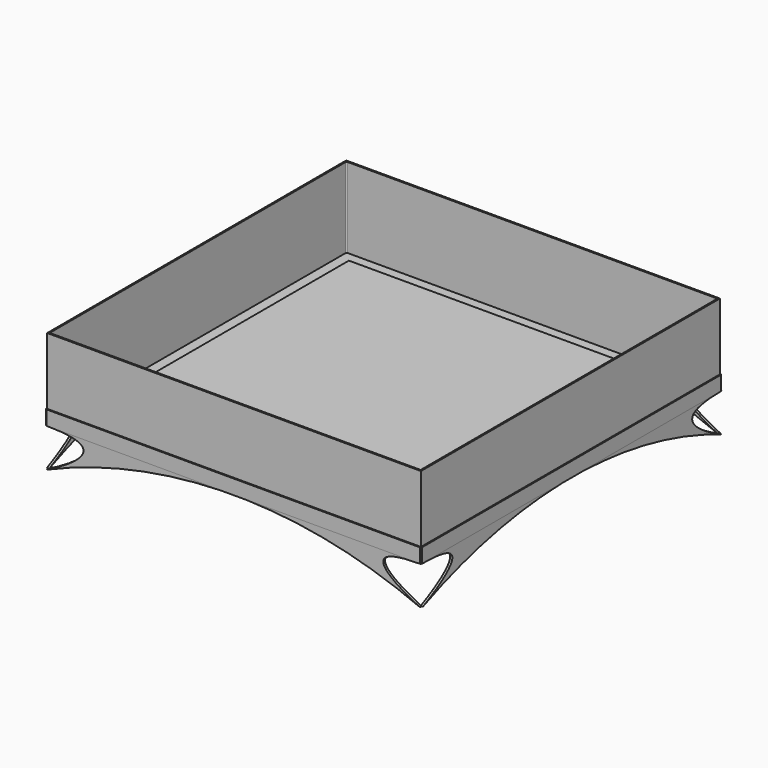
from build123d import *

# Parameters (mm, degrees)
F1_DEPTH      = 76.2
F1_DEPTH_BACK = 6.35
F0_W          = 1981.2
F0_H          = 1981.2
F2_DEPTH      = 6.35
F3_DEPTH      = 9.525
F4_DEPTH      = 457.2
F6_DEPTH      = 12.7
F8_ANGLE      = 90


with BuildPart() as f1:
    # F0 (on Top) → F1 (new body, two sides)
    with BuildSketch(Plane.XY) as f1_sk:
        Polygon((-1066.8, 1073.15), (-1073.15, 1066.8), (-1073.15, -1066.8), (-1066.8, -1073.15), (1066.8, -1073.15), (1073.15, -1066.8), (1073.15, 1066.8), (1066.8, 1073.15), align=None)
        with BuildLine():
            Line((-1060.45, 1066.8), (1066.8, 1066.8))
            Line((1066.8, 1066.8), (1066.8, -1066.8))
            Line((1066.8, -1066.8), (-1066.8, -1066.8))
            Line((-1066.8, -1066.8), (-1066.8, 1060.45))
            ThreePointArc((-1066.8, 1060.45), (-1064.9401280605, 1064.9401280605), (-1060.45, 1066.8))
        make_face(mode=Mode.SUBTRACT)
    extrude(amount=F1_DEPTH)
    extrude(f1_sk.sketch, amount=-F1_DEPTH_BACK)

    # F0 (on Top) → F2 (join)
    with BuildSketch(Plane.XY):
        with BuildLine():
            Line((1066.8, -1066.8), (1066.8, 1066.8))
            Line((1066.8, 1066.8), (-1060.45, 1066.8))
            ThreePointArc((-1060.45, 1066.8), (-1064.9401280605, 1064.9401280605), (-1066.8, 1060.45))
            Line((-1066.8, 1060.45), (-1066.8, -1066.8))
            Line((-1066.8, -1066.8), (1066.8, -1066.8))
        make_face()
        with BuildLine():
            Line((-1052.5125, 1058.8625), (1052.5125, 1058.8625))
            ThreePointArc((1052.5125, 1058.8625), (1057.0026280605, 1057.0026280605), (1058.8625, 1052.5125))
            Line((1058.8625, 1052.5125), (1058.8625, -1058.8625))
            Line((1058.8625, -1058.8625), (-1058.8625, -1058.8625))
            Line((-1058.8625, -1058.8625), (-1058.8625, 1052.5125))
            ThreePointArc((-1058.8625, 1052.5125), (-1057.0026280605, 1057.0026280605), (-1052.5125, 1058.8625))
        make_face(mode=Mode.SUBTRACT)
        with BuildLine():
            ThreePointArc((1058.8625, 1052.5125), (1057.0026280605, 1057.0026280605), (1052.5125, 1058.8625))
            Line((1052.5125, 1058.8625), (-1052.5125, 1058.8625))
            ThreePointArc((-1052.5125, 1058.8625), (-1057.0026280605, 1057.0026280605), (-1058.8625, 1052.5125))
            Line((-1058.8625, 1052.5125), (-1058.8625, -1058.8625))
            Line((-1058.8625, -1058.8625), (1058.8625, -1058.8625))
            Line((1058.8625, -1058.8625), (1058.8625, 1052.5125))
        make_face()
        Rectangle(F0_W, F0_H, mode=Mode.SUBTRACT)
    extrude(amount=-F2_DEPTH)


with BuildPart() as f3:
    # F0 (on Top) → F3 (new body)
    with BuildSketch(Plane.XY):
        Rectangle(F0_W, F0_H)
    extrude(amount=F3_DEPTH)


with BuildPart() as f3b:
    # F0 (on Top) → F3, piece 2 (new body)
    with BuildSketch(Plane.XY):
        with BuildLine():
            Line((1066.8, -1066.8), (1066.8, 1066.8))
            Line((1066.8, 1066.8), (-1060.45, 1066.8))
            ThreePointArc((-1060.45, 1066.8), (-1064.9401280605, 1064.9401280605), (-1066.8, 1060.45))
            Line((-1066.8, 1060.45), (-1066.8, -1066.8))
            Line((-1066.8, -1066.8), (1066.8, -1066.8))
        make_face()
        with BuildLine():
            Line((-1052.5125, 1058.8625), (1052.5125, 1058.8625))
            ThreePointArc((1052.5125, 1058.8625), (1057.0026280605, 1057.0026280605), (1058.8625, 1052.5125))
            Line((1058.8625, 1052.5125), (1058.8625, -1058.8625))
            Line((1058.8625, -1058.8625), (-1058.8625, -1058.8625))
            Line((-1058.8625, -1058.8625), (-1058.8625, 1052.5125))
            ThreePointArc((-1058.8625, 1052.5125), (-1057.0026280605, 1057.0026280605), (-1052.5125, 1058.8625))
        make_face(mode=Mode.SUBTRACT)
    extrude(amount=F3_DEPTH)


with BuildPart() as f4:
    # F0 (on Top) → F4 (new body)
    with BuildSketch(Plane.XY):
        with BuildLine():
            Line((1066.8, -1066.8), (1066.8, 1066.8))
            Line((1066.8, 1066.8), (-1060.45, 1066.8))
            ThreePointArc((-1060.45, 1066.8), (-1064.9401280605, 1064.9401280605), (-1066.8, 1060.45))
            Line((-1066.8, 1060.45), (-1066.8, -1066.8))
            Line((-1066.8, -1066.8), (1066.8, -1066.8))
        make_face()
        with BuildLine():
            Line((-1052.5125, 1058.8625), (1052.5125, 1058.8625))
            ThreePointArc((1052.5125, 1058.8625), (1057.0026280605, 1057.0026280605), (1058.8625, 1052.5125))
            Line((1058.8625, 1052.5125), (1058.8625, -1058.8625))
            Line((1058.8625, -1058.8625), (-1058.8625, -1058.8625))
            Line((-1058.8625, -1058.8625), (-1058.8625, 1052.5125))
            ThreePointArc((-1058.8625, 1052.5125), (-1057.0026280605, 1057.0026280605), (-1052.5125, 1058.8625))
        make_face(mode=Mode.SUBTRACT)
    extrude(amount=F4_DEPTH)


with BuildPart() as f6:
    # F5 (on face) → F6 (new body)
    with BuildSketch(Plane.XZ.offset(1073.15)):
        with BuildLine():
            ThreePointArc((-1066.8, -227.0714342594), (-0.23745935, -6.6121895739), (1066.8, -224.7612029314))
            add(Edge.make_bspline(
                [(1066.8, -6.35), (679.4852614403, -6.35), (918.8418984413, -155.0294607878), (1066.8, -224.7612029314)],
                knots=[0, 0, 0, 0, 218.4112029314, 218.4112029314, 218.4112029314, 218.4112029314], degree=3))
            Line((1066.8, -6.35), (-1066.8, -6.35))
            add(Edge.make_bspline(
                [(-1066.8, -6.35), (-670.3295111656, -6.35), (-925.3817200661, -157.6453745365), (-1066.8, -227.0714342594)],
                knots=[0, 0, 0, 0, 220.7214342594, 220.7214342594, 220.7214342594, 220.7214342594], degree=3))
        make_face()
    extrude(amount=-F6_DEPTH)


with BuildPart() as f7_1:
    # F7: copy of F6
    add(f6.part.moved(Location((0, 2133.6, 0))))


with BuildPart() as f8_1:
    # F8: copy of F7_1
    add(f7_1.part.rotate(Axis((-1066.8, 1073.15, 34.925), (0, 0, -1)), F8_ANGLE))


with BuildPart() as f8_1_1:
    # F9: moved
    add(f8_1.part.moved(Location((6.35, 0, 0))))


with BuildPart() as f10_1:
    # F10: copy of F8_1
    add(f8_1_1.part.moved(Location((2133.6, 0, 0))))


solid = Compound([f1.part, f3.part, f3b.part, f4.part, f6.part, f7_1.part, f8_1_1.part, f10_1.part])
